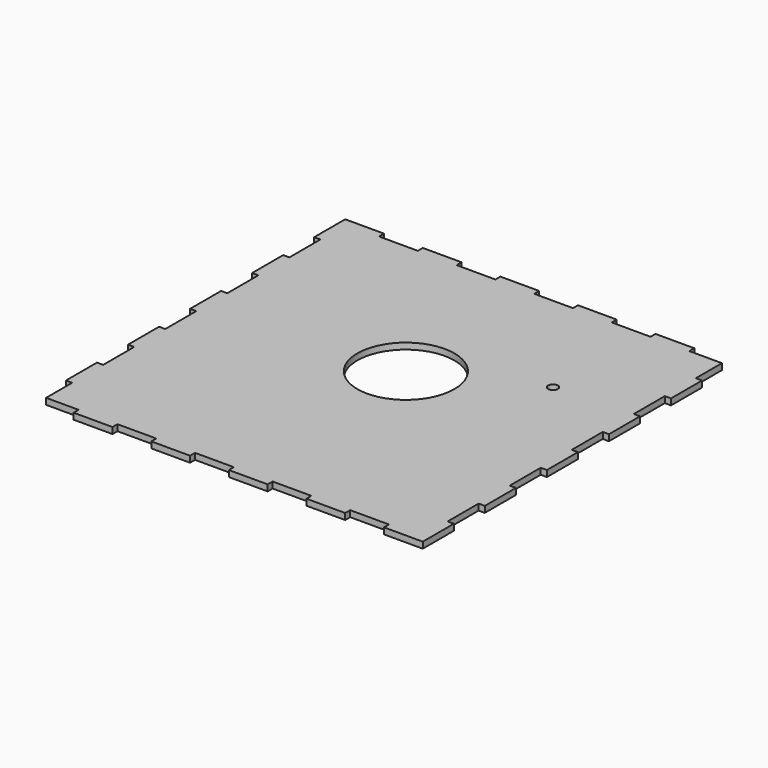
from build123d import *

# Parameters (mm, degrees)
F0_R     = 25
F0_R_2   = 2.5
F1_DEPTH = 3.2


with BuildPart() as f1:
    # F0 (on Top) → F1 (new body)
    with BuildSketch(Plane.XY):
        Polygon((-81.841277, 101.825573), (-101.841277, 101.825573), (-101.841277, 81.825573), (-98.641277, 81.825573), (-98.641277, 61.825573), (-101.841277, 61.825573), (-101.841277, 41.825573), (-98.641277, 41.825573), (-98.641277, 21.825573), (-101.841277, 21.825573), (-101.841277, 1.825573), (-98.641277, 1.825573), (-98.641277, -18.174427), (-101.841277, -18.174427), (-101.841277, -38.174427), (-98.641277, -38.174427), (-98.641277, -58.174427), (-101.841277, -58.174427), (-101.841277, -78.174427), (-98.641277, -78.174427), (-98.641277, -94.974427), (-81.841277, -94.974427), (-81.841277, -98.174427), (-61.841277, -98.174427), (-61.841277, -94.974427), (-41.841277, -94.974427), (-41.841277, -98.174427), (-21.841277, -98.174427), (-21.841277, -94.974427), (-1.841277, -94.974427), (-1.841277, -98.174427), (18.158723, -98.174427), (18.158723, -94.974427), (38.158723, -94.974427), (38.158723, -98.174427), (58.158723, -98.174427), (58.158723, -94.974427), (78.158723, -94.974427), (78.158723, -98.174427), (98.158723, -98.174427), (98.158723, -78.174427), (94.958723, -78.174427), (94.958723, -58.174427), (98.158723, -58.174427), (98.158723, -38.174427), (94.958723, -38.174427), (94.958723, -18.174427), (98.158723, -18.174427), (98.158723, 1.825573), (94.958723, 1.825573), (94.958723, 21.825573), (98.158723, 21.825573), (98.158723, 41.825573), (94.958723, 41.825573), (94.958723, 61.825573), (98.158723, 61.825573), (98.158723, 81.825573), (94.958723, 81.825573), (94.958723, 98.625573), (78.158723, 98.625573), (78.158723, 101.825573), (58.158723, 101.825573), (58.158723, 98.625573), (38.158723, 98.625573), (38.158723, 101.825573), (18.158723, 101.825573), (18.158723, 98.625573), (-1.841277, 98.625573), (-1.841277, 101.825573), (-21.841277, 101.825573), (-21.841277, 98.625573), (-41.841277, 98.625573), (-41.841277, 101.825573), (-61.841277, 101.825573), (-61.841277, 98.625573), (-81.841277, 98.625573), align=None)
        with Locations((0, 13.625573)):
            Circle(F0_R, mode=Mode.SUBTRACT)
        with Locations((54.958723, 39.761197)):
            Circle(F0_R_2, mode=Mode.SUBTRACT)
    extrude(amount=F1_DEPTH)


solid = f1.part
